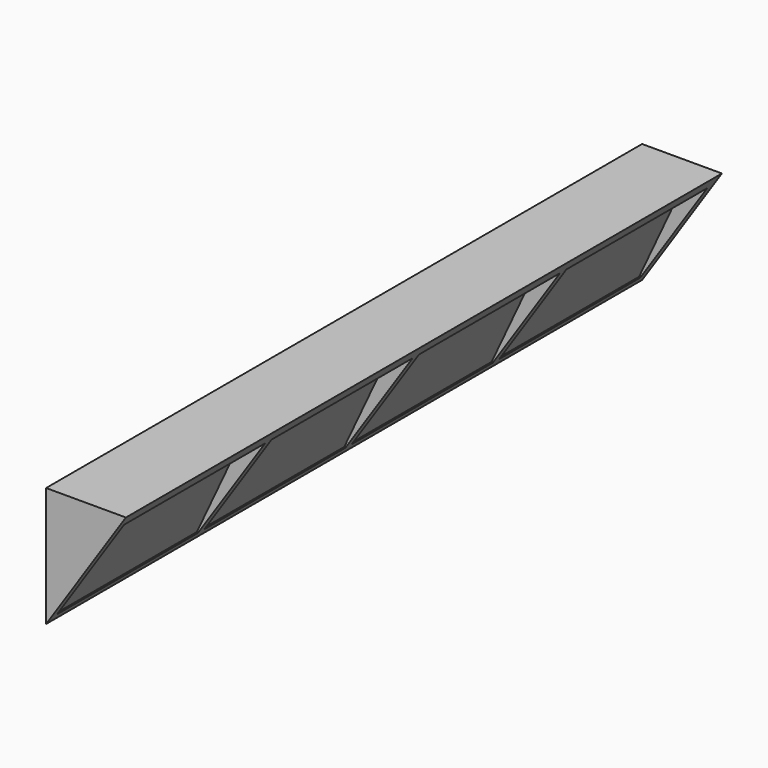
from build123d import *

# Parameters (mm, degrees)
F1_DEPTH = 2800
F3_W     = 662.5
F3_H     = 450
F4_DEPTH = 247


with BuildPart() as f1:
    # F0 (on Front) → F1 (new body)
    with BuildSketch(Plane.XZ):
        Polygon((300, 0), (0, 0), (0, -450), align=None)
    extrude(amount=F1_DEPTH)

    # F3 (on face) → F4 (cut)
    with BuildSketch(Plane(origin=(172.36, 0, -80.372788), x_dir=(0, -1, 0), z_dir=(-0.906308, 0, 0.422618))):
        with Locations((2438.75, -152.838504)):
            Rectangle(F3_W, F3_H)
        with Locations((1746.25, -152.838504)):
            Rectangle(F3_W, F3_H)
        with Locations((1053.75, -152.838504)):
            Rectangle(F3_W, F3_H)
        with Locations((361.25, -152.838504)):
            Rectangle(F3_W, F3_H)
    extrude(amount=-F4_DEPTH, mode=Mode.SUBTRACT)


solid = f1.part
